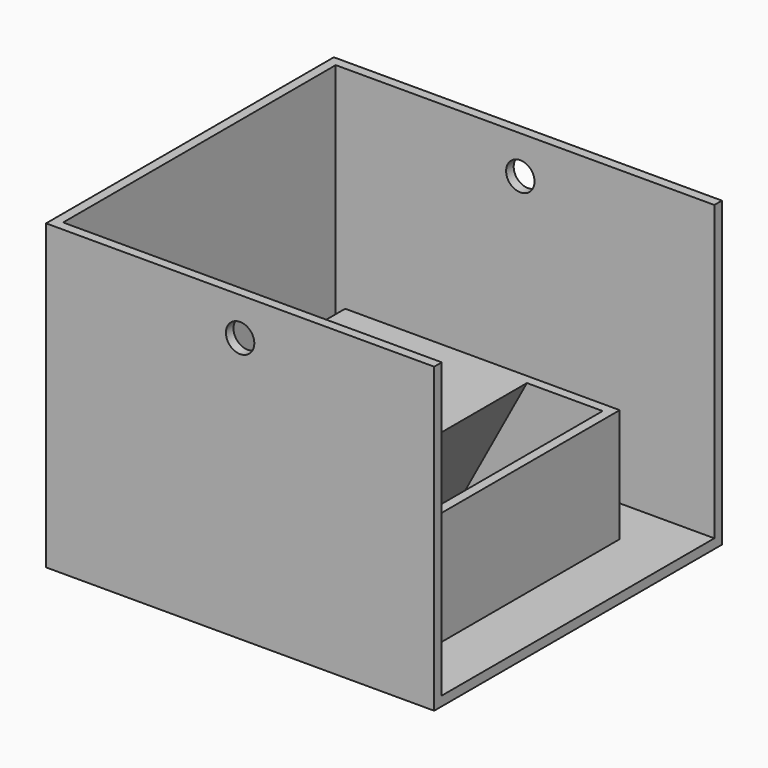
from build123d import *

# Parameters (mm, degrees)
F0_W      = 130.175
F0_H      = 120.65
F1_DEPTH  = 101.6
F2_T      = -3.175
F3_W      = 85.725
F3_H      = 69.85
F4_DEPTH  = 25.4
F5_W      = 92.075
F5_H      = 76.2
F5_W_2    = 85.725
F5_H_2    = 69.85
F6_DEPTH  = 38.1
F7_W      = 79.375
F7_H      = 3.175
F8_DEPTH  = 6.35
F9_W      = 79.375
F9_H      = 3.175
F10_DEPTH = 6.35
F11_W     = 79.375
F11_H     = 3.175
F12_DEPTH = 3.175
F13_W     = 79.375
F13_H     = 3.175
F14_DEPTH = 3.175
F15_W     = 114.3
F15_H     = 95.25
F16_DEPTH = 6.35
F17_W     = 114.3
F17_H     = 3.175
F18_DEPTH = 16.764
F20_DEPTH = 69.85
F22_DEPTH = 69.85
F23_R     = 4.7625
F24_DEPTH = 148.082
F25_W     = 3.175
F25_H     = 3.175
F26_DEPTH = 69.85
F27_DEPTH = 3.175
F28_W     = 63.5
F28_H     = 3.175
F29_DEPTH = 31.75


with BuildPart() as f1:
    # F0 (on Top) → F1 (new body)
    with BuildSketch(Plane.XY):
        with Locations((244.3640923992, 60.325)):
            Rectangle(F0_W, F0_H)
    extrude(amount=F1_DEPTH)

    # F2
    f2_openings = [f1.faces().sort_by_distance(p)[0] for p in [
        (244.364092, 60.325, 101.6),
    ]]
    offset(amount=F2_T, openings=f2_openings)

    # F3 (on face) → F4 (cut)
    with BuildSketch(Plane.XY.offset(3.175)):
        with Locations((244.3640923992, 63.5)):
            Rectangle(F3_W, F3_H)
    extrude(amount=-F4_DEPTH, mode=Mode.SUBTRACT)

    # F5 (on face) → F6 (join)
    with BuildSketch(Plane.XY.offset(3.175)):
        with Locations((244.3640923992, 63.5)):
            Rectangle(F5_W, F5_H)
        with Locations((244.3640923992, 63.5)):
            Rectangle(F5_W_2, F5_H_2, mode=Mode.SUBTRACT)
    extrude(amount=F6_DEPTH)

    # F7 (on face) → F8 (join)
    with BuildSketch(Plane(origin=(0, 0, 0), x_dir=(1, 0, 0), z_dir=(0, 0, -1))):
        with Locations((244.3640923992, -26.9875)):
            Rectangle(F7_W, F7_H)
    extrude(amount=F8_DEPTH)

    # F9 (on face) → F10 (join)
    with BuildSketch(Plane(origin=(0, 0, 0), x_dir=(1, 0, 0), z_dir=(0, 0, -1))):
        with Locations((244.3640923992, -100.0125)):
            Rectangle(F9_W, F9_H)
    extrude(amount=F10_DEPTH)

    # F11 (on face) → F12 (join)
    with BuildSketch(Plane.XZ.offset(-98.425)):
        with Locations((244.3640923992, -4.7625)):
            Rectangle(F11_W, F11_H)
    extrude(amount=F12_DEPTH)

    # F13 (on face) → F14 (join)
    with BuildSketch(Plane(origin=(0, 28.575, 0), x_dir=(-1, 0, 0), z_dir=(0, 1, 0))):
        with Locations((-244.3640923992, -4.7625)):
            Rectangle(F13_W, F13_H)
    extrude(amount=F14_DEPTH)

    # F15 (on face) → F16 (cut)
    with BuildSketch(Plane.YZ.offset(309.4515923992)):
        with Locations((60.325, 50.8)):
            Rectangle(F15_W, F15_H)
    extrude(amount=-F16_DEPTH, mode=Mode.SUBTRACT)

    # F17 (on face) → F18 (cut)
    with BuildSketch(Plane.YZ.offset(309.4515923992)):
        with Locations((60.325, 100.0125)):
            Rectangle(F17_W, F17_H)
    extrude(amount=-F18_DEPTH, mode=Mode.SUBTRACT)

    # F19 (on face) → F20 (join)
    with BuildSketch(Plane.XZ.offset(-98.425)):
        Polygon((265.0015923992, 0), (284.0515923992, 0), (287.2265923992, 0), (287.2265923992, 41.275), align=None)
    extrude(amount=F20_DEPTH)

    # F21 (on face) → F22 (join)
    with BuildSketch(Plane.XZ.offset(-98.425)):
        Polygon((201.5015923992, 0), (204.6765923992, 0), (239.6015923992, 0), (261.8265923992, 41.275), (201.5015923992, 41.275), align=None)
    extrude(amount=F22_DEPTH)

    # F23 (on face) → F24 (cut)
    with BuildSketch(Plane.XZ):
        with Locations((244.3640923992, 88.9)):
            Circle(F23_R)
    extrude(amount=-F24_DEPTH, mode=Mode.SUBTRACT)

    # F25 (on face) → F26 (join)
    with BuildSketch(Plane(origin=(0, 28.575, 0), x_dir=(-1, 0, 0), z_dir=(0, 1, 0))):
        with Locations((-206.2640923992, -1.5875)):
            Rectangle(F25_W, F25_H)
    extrude(amount=F26_DEPTH)

    # F27 (add): a face of the model
    f27_faces = [f1.faces().sort_by_distance(p)[0] for p in [
        (206.2640923992, 63.5, -3.175),
    ]]
    extrude(f27_faces, amount=F27_DEPTH)

    # F28 (on face) → F29 (join)
    with BuildSketch(Plane.YZ.offset(207.8515923992)):
        with Locations((63.5, -4.7625)):
            Rectangle(F28_W, F28_H)
    extrude(amount=F29_DEPTH)


solid = f1.part
